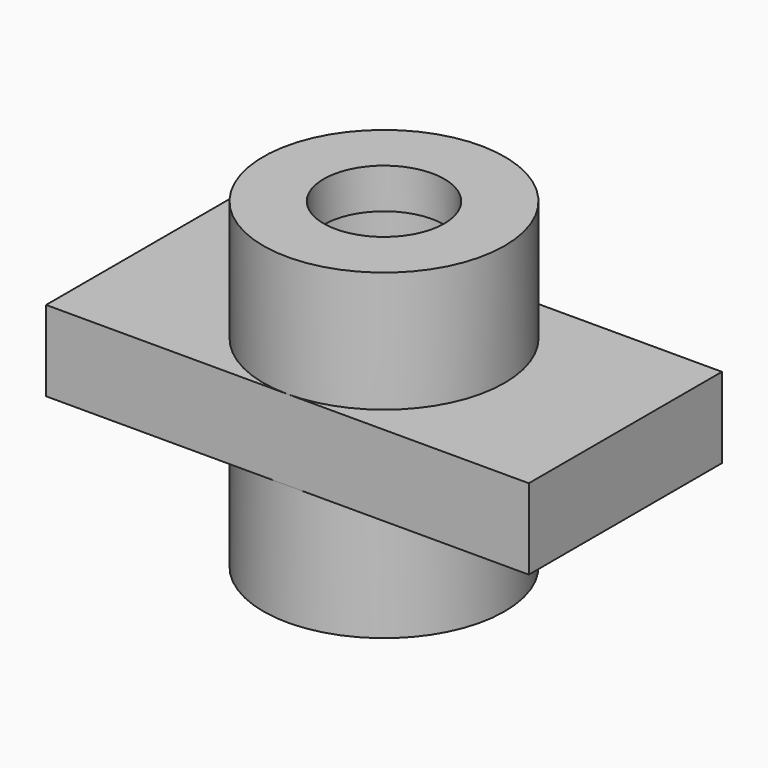
from build123d import *

# Parameters (mm, degrees)
F0_W     = 76.2
F0_H     = 38.1
F1_DEPTH = 6.35
F2_R     = 19.05
F3_DEPTH = 25.4
F4_R     = 9.525
F5_DEPTH = 25.4
F7_START = -6.35
F6_R     = 12.7
F7_DEPTH = 6.35


with BuildPart() as f1:
    # F0 (on Top) → F1 (new body, symmetric)
    with BuildSketch(Plane.XY):
        Rectangle(F0_W, F0_H)
    extrude(amount=F1_DEPTH, both=True)

    # F2 (on Top) → F3 (join, symmetric)
    with BuildSketch(Plane.XY):
        Circle(F2_R)
    extrude(amount=F3_DEPTH, both=True)

    # F4 (on Top) → F5 (cut, symmetric)
    with BuildSketch(Plane.XY):
        Circle(F4_R)
    extrude(amount=F5_DEPTH, both=True, mode=Mode.SUBTRACT)

    # F6 (on face) → F7 (cut)
    with BuildSketch(Plane.XY.offset(25.4).offset(F7_START)):
        Circle(F6_R)
    extrude(amount=-F7_DEPTH, mode=Mode.SUBTRACT)


solid = f1.part
